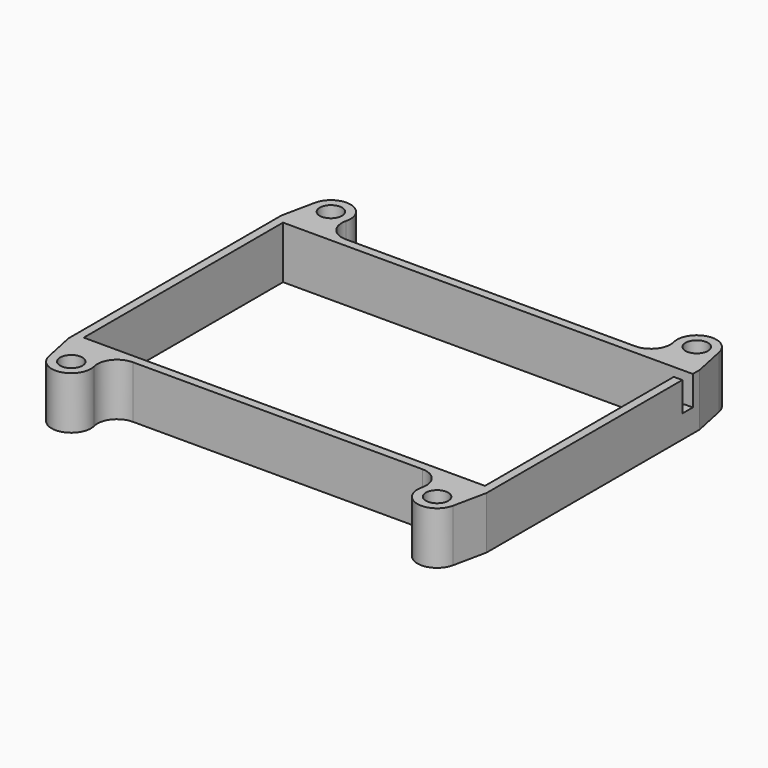
from build123d import *

# Parameters (mm, degrees)
SKETCH_R     = 1.7
SKETCH_W     = 61.2
SKETCH_H     = 38
PAD_DEPTH    = 8
SKETCH001_W  = 2
SKETCH001_H  = 4.5
POCKET_DEPTH = 1.3


with BuildPart() as part:
    # Sketch → Pad (new body)
    with BuildSketch(Plane.XY):
        with BuildLine():
            Line((-31.9, 20.3), (-31.9, -20.3))
            Line((-31.9, -20.3), (-30.835954, -25.366584))
            ThreePointArc((-30.835954, -25.366584), (-27.229087, -27.674017), (-24.988925, -24.024987))
            ThreePointArc((-22.077844, -20.3), (-24.441629, -21.4527), (-24.988925, -24.024987))
            Line((22.077844, -20.3), (-22.077844, -20.3))
            ThreePointArc((24.988925, -24.024987), (24.441629, -21.452699), (22.077844, -20.3))
            ThreePointArc((24.988925, -24.024987), (27.229087, -27.674017), (30.835954, -25.366583))
            Line((31.9, -20.3), (30.835954, -25.366583))
            Line((31.9, 20.3), (31.9, -20.3))
            Line((31.9, 20.3), (30.835954, 25.366583))
            ThreePointArc((30.835954, 25.366583), (27.229093, 27.674018), (24.988922, 24.025))
            ThreePointArc((22.077844, 20.3), (24.441633, 21.452705), (24.988922, 24.025))
            Line((-22.077844, 20.3), (22.077844, 20.3))
            ThreePointArc((-24.988922, 24.025), (-24.441633, 21.452705), (-22.077844, 20.3))
            ThreePointArc((-24.988922, 24.025), (-27.229093, 27.674018), (-30.835954, 25.366584))
            Line((-31.9, 20.3), (-30.835954, 25.366584))
        make_face()
        with Locations((-27.9, -24.75)):
            Circle(SKETCH_R, mode=Mode.SUBTRACT)
        with Locations((27.9, -24.75)):
            Circle(SKETCH_R, mode=Mode.SUBTRACT)
        with Locations((27.9, 24.75)):
            Circle(SKETCH_R, mode=Mode.SUBTRACT)
        with Locations((-27.9, 24.75)):
            Circle(SKETCH_R, mode=Mode.SUBTRACT)
        Rectangle(SKETCH_W, SKETCH_H, mode=Mode.SUBTRACT)
    extrude(amount=PAD_DEPTH)

    # Sketch001 → Pocket (cut)
    with BuildSketch(Plane.YZ.offset(31.9)):
        with Locations((18, 5.75)):
            Rectangle(SKETCH001_W, SKETCH001_H)
    extrude(amount=-POCKET_DEPTH, mode=Mode.SUBTRACT)


solid = part.part
